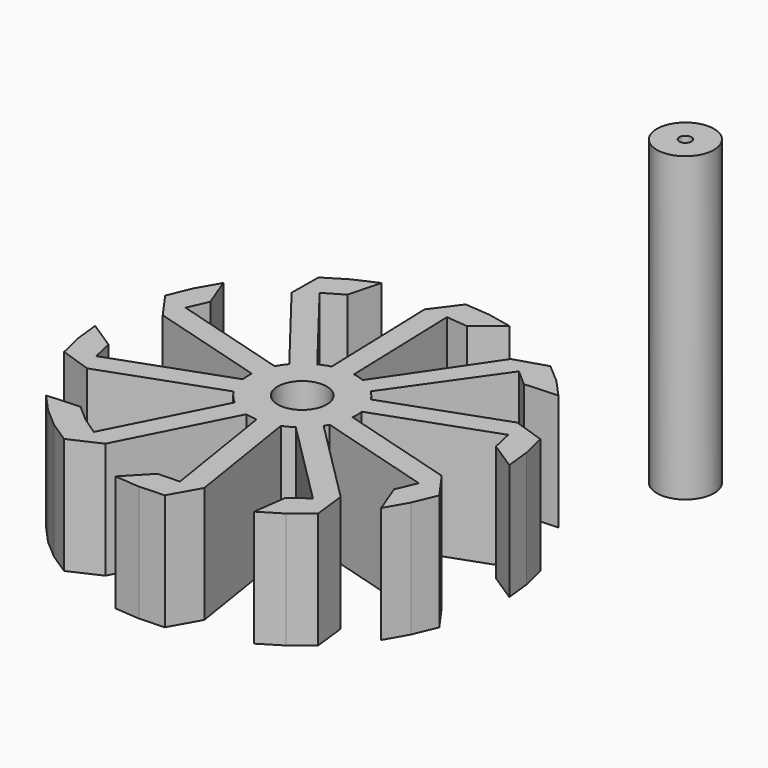
from build123d import *

# Parameters (mm, degrees)
F0_R     = 4.7226333732
F1_DEPTH = 19.22295
F3_D     = 8.1
F0_R_2   = 4.7225
F0_R_3   = 1
F5_DEPTH = 50


with BuildPart() as f1:
    # F0 (on Top) → F1 (new body)
    with BuildSketch(Plane.XY):
        with BuildLine():
            Line((-3.6111849133, 7.5399878677), (-15.8682249749, 23.3439420857))
            Line((-15.8682249749, 23.3439420857), (-18.7257190256, 21.1277613394))
            Line((-18.7257190256, 21.1277613394), (-6.4686789639, 5.3238071213))
            ThreePointArc((-6.4686789639, 5.3238071213), (-5.153365355, 6.5781560129), (-3.6111849133, 7.5399878677))
        make_face()
        with BuildLine():
            Line((-2.3922839945, 28.1945188575), (-1.7654615012, 8.2043439318))
            ThreePointArc((-1.7654615012, 8.2043439318), (0.0359373411, 8.4460115605), (1.8489381062, 8.3176789567))
            Line((1.8489381062, 8.3176789567), (1.2221156129, 28.3078538824))
            Line((1.2221156129, 28.3078538824), (-2.3922839945, 28.1945188575))
        make_face()
        with BuildLine():
            Line((14.9754783728, 24.3110935543), (3.7326584103, 7.7702653014))
            ThreePointArc((3.7326584103, 7.7702653014), (5.1985184938, 6.9959722127), (6.4958647117, 5.963902272))
            Line((6.4958647117, 5.963902272), (17.957123341, 22.2844660446))
            Line((17.957123341, 22.2844660446), (14.9754783728, 24.3110935543))
        make_face()
        with BuildLine():
            Line((26.7436731606, 10.9608219028), (7.9255858385, 4.1873745133))
            ThreePointArc((7.9255858385, 4.1873745133), (8.7120882675, 2.5488218102), (9.1502847556, 0.784898663))
            Line((9.1502847556, 0.784898663), (27.9683720778, 7.5583460524))
            Line((27.9683720778, 7.5583460524), (26.7436731606, 10.9608219028))
        make_face()
        with BuildLine():
            Line((28.4172499462, -6.7569460852), (9.2117650183, -1.1757859295))
            ThreePointArc((9.2117650183, -1.1757859295), (8.8849417355, -2.9636974411), (8.2026421291, -4.6483066774))
            Line((8.2026421291, -4.6483066774), (27.4081270571, -10.2294668331))
            Line((27.4081270571, -10.2294668331), (28.4172499462, -6.7569460852))
        make_face()
        with BuildLine():
            ThreePointArc((7.7730097127, -5.3746599207), (6.6252793471, -6.7839704044), (5.2158089552, -7.9315043892))
            Line((5.2158089552, -7.9315043892), (19.3569592803, -22.074625243))
            Line((19.3569592803, -22.074625243), (21.9141600377, -19.5177807745))
            Line((21.9141600377, -19.5177807745), (7.7730097127, -5.3746599207))
        make_face()
        with BuildLine():
            ThreePointArc((3.4679055173, -8.8219522908), (1.7110002283, -9.28748944), (-0.1037888245, -9.3873980254))
            Line((-0.1037888245, -9.3873980254), (3.0235242493, -29.1413827612))
            Line((3.0235242493, -29.1413827612), (6.595218591, -28.5759370266))
            Line((6.595218591, -28.5759370266), (3.4679055173, -8.8219522908))
        make_face()
        with BuildLine():
            ThreePointArc((-2.0412645548, -9.0803936472), (-3.7362666617, -8.4243380938), (-5.2631866398, -7.4384595961))
            Line((-5.2631866398, -7.4384595961), (-14.3442381181, -25.257957458))
            Line((-14.3442381181, -25.257957458), (-11.1223160331, -26.8998915091))
            Line((-11.1223160331, -26.8998915091), (-2.0412645548, -9.0803936472))
        make_face()
        with BuildLine():
            ThreePointArc((-7.2943455838, -5.134238417), (-8.0808480128, -3.4956857139), (-8.5190445009, -1.7317625667))
            Line((-8.5190445009, -1.7317625667), (-27.337131823, -8.5052099561))
            Line((-27.337131823, -8.5052099561), (-26.1124329059, -11.9076858064))
            Line((-26.1124329059, -11.9076858064), (-7.2943455838, -5.134238417))
        make_face()
        with BuildLine():
            ThreePointArc((-8.5805247636, 0.2289220258), (-8.2537014807, 2.0168335374), (-7.5714018744, 3.7014427737))
            Line((-7.5714018744, 3.7014427737), (-26.7768868023, 9.2826029294))
            Line((-26.7768868023, 9.2826029294), (-27.7860096915, 5.8100821815))
            Line((-27.7860096915, 5.8100821815), (-8.5805247636, 0.2289220258))
        make_face()
        with BuildLine():
            ThreePointArc((-1.7654615012, 8.2043439318), (-2.7066336347, 7.9230361883), (-3.6111849133, 7.5399878677))
            ThreePointArc((-3.6111849133, 7.5399878677), (-5.153365355, 6.5781560129), (-6.4686789639, 5.3238071213))
            ThreePointArc((-6.4686789639, 5.3238071213), (-7.0647546716, 4.5430172762), (-7.5714018744, 3.7014427737))
            ThreePointArc((-7.5714018744, 3.7014427737), (-8.2537014807, 2.0168335374), (-8.5805247636, 0.2289220258))
            ThreePointArc((-8.5805247636, 0.2289220258), (-8.603823385, -0.7531147381), (-8.5190445009, -1.7317625667))
            ThreePointArc((-8.5190445009, -1.7317625667), (-8.0808480128, -3.4956857139), (-7.2943455838, -5.134238417))
            ThreePointArc((-7.2943455838, -5.134238417), (-6.3786526996, -6.3743985124), (-5.2631866398, -7.4384595961))
            ThreePointArc((-5.2631866398, -7.4384595961), (-3.7362666617, -8.4243380938), (-2.0412645548, -9.0803936472))
            ThreePointArc((-2.0412645548, -9.0803936472), (-1.0809880881, -9.2872949257), (-0.1037888245, -9.3873980254))
            ThreePointArc((-0.1037888245, -9.3873980254), (1.7110002283, -9.28748944), (3.4679055173, -8.8219522908))
            ThreePointArc((3.4679055173, -8.8219522908), (4.3663990183, -8.4249025961), (5.2158089552, -7.9315043892))
            ThreePointArc((5.2158089552, -7.9315043892), (6.6252793471, -6.7839704044), (7.7730097127, -5.3746599207))
            ThreePointArc((7.7730097127, -5.3746599207), (7.9964168957, -5.0165647953), (8.2026421291, -4.6483066774))
            ThreePointArc((8.2026421291, -4.6483066774), (8.8849417355, -2.9636974411), (9.2117650183, -1.1757859295))
            ThreePointArc((9.2117650183, -1.1757859295), (9.2325241962, -0.8248816032), (9.239447503, -0.4734319518))
            ThreePointArc((9.239447503, -0.4734319518), (9.2171289066, 0.1573108507), (9.1502847556, 0.784898663))
            ThreePointArc((9.1502847556, 0.784898663), (8.7120882675, 2.5488218102), (7.9255858385, 4.1873745133))
            ThreePointArc((7.9255858385, 4.1873745133), (7.2677052619, 5.1214949747), (6.4958647117, 5.963902272))
            ThreePointArc((6.4958647117, 5.963902272), (5.1985184938, 6.9959722127), (3.7326584103, 7.7702653014))
            ThreePointArc((3.7326584103, 7.7702653014), (2.8058856166, 8.0958896563), (1.8489381062, 8.3176789567))
            ThreePointArc((1.8489381062, 8.3176789567), (0.0359373411, 8.4460115605), (-1.7654615012, 8.2043439318))
        make_face()
        with Locations((0.3156201274, -0.4734319518)):
            Circle(F0_R, mode=Mode.SUBTRACT)
        with Locations((0.3156201274, -0.4734319518)):
            Circle(F0_R)
        Polygon((-26.7768868023, 9.2826029294), (-25.3404988946, 12.6012651793), (-27.3080936211, 17.7328409462), (-29.3721234408, 14.1271096793), (-30.9679598099, 10.291119149), (-27.7860096915, 5.8100821815), align=None)
        Polygon((-26.1124329059, -11.9076858064), (-27.337131823, -8.5052099561), (-28.125730323, -4.9760681687), (-32.7338124516, -1.981059328), (-32.2842519902, -6.1113634884), (-31.3205720714, -10.1527541005), align=None)
        Polygon((-11.1223160331, -26.8998915091), (-14.3442381181, -25.257957458), (-17.3349654811, -23.2251566341), (-20.0473325652, -20.8335475207), (-25.5357713458, -21.1190971868), (-22.7443374196, -24.1963384354), (-19.5892341875, -26.8994552773), (-16.1202195124, -29.1858179452), align=None)
        Polygon((6.595218591, -28.5759370266), (3.0235242493, -29.1413827612), (-0.5908753582, -29.2547177861), (-4.3963028452, -33.2199694176), (-0.2549184965, -33.5523137312), (3.895463587, -33.3629843188), align=None)
        Polygon((21.9141600377, -19.5177807745), (19.3569592803, -22.074625243), (16.4994652297, -24.2908059894), (15.7515261524, -29.7355361017), (19.2973235569, -27.5701636552), (22.5437681592, -24.977459563), align=None)
        Polygon((31.5992000647, -11.2379830526), (28.4172499462, -6.7569460852), (27.4081270571, -10.2294668331), (25.9717391493, -13.5481290829), (27.9393338758, -18.6797048499), (30.0033636956, -15.073973583), align=None)
        Polygon((31.9518123261, 9.2058901969), (26.7436731606, 10.9608219028), (27.9683720778, 7.5583460524), (28.7569705777, 4.029204265), (33.3650527063, 1.0341954243), (32.915492245, 5.1644995847), align=None)
        Polygon((20.2204744423, 25.9525913736), (14.9754783728, 24.3110935543), (17.957123341, 22.2844660446), (17.9662057359, 22.2782927304), (20.67857282, 19.8866836171), (26.1670116005, 20.1722332832), (23.3755776743, 23.2494745317), align=None)
        Polygon((0.8861587513, 32.6054498275), (-2.3922839945, 28.1945188575), (1.2221156129, 28.3078538824), (4.822219245, 27.9672908367), (9.0946176085, 31.4243287426), (5.0275430999, 32.2731055139), align=None)
        Polygon((-18.7257190256, 21.1277613394), (-15.8682249749, 23.3439420857), (-12.7555020193, 25.1845086157), (-11.3310550342, 30.4925637818), (-15.1202858977, 28.7886721981), (-18.6660833022, 26.6232997516), align=None)
    extrude(amount=F1_DEPTH)

    # F3 (through all)
    with Locations(Plane(origin=(0, 0, 0), x_dir=(1, 0, 0), z_dir=(0, 0, -1))):
        with Locations((0.3156201274, 0.4734319518)):
            Hole(F3_D / 2)


with BuildPart() as f5:
    # F0 (on Top) → F5 (new body)
    with BuildSketch(Plane.XY):
        with Locations((31.1406832188, 40.2233861387)):
            Circle(F0_R_2)
        with Locations((31.1406832188, 40.2233861387)):
            Circle(F0_R_3, mode=Mode.SUBTRACT)
    extrude(amount=F5_DEPTH)


solid = Compound([f1.part, f5.part])
